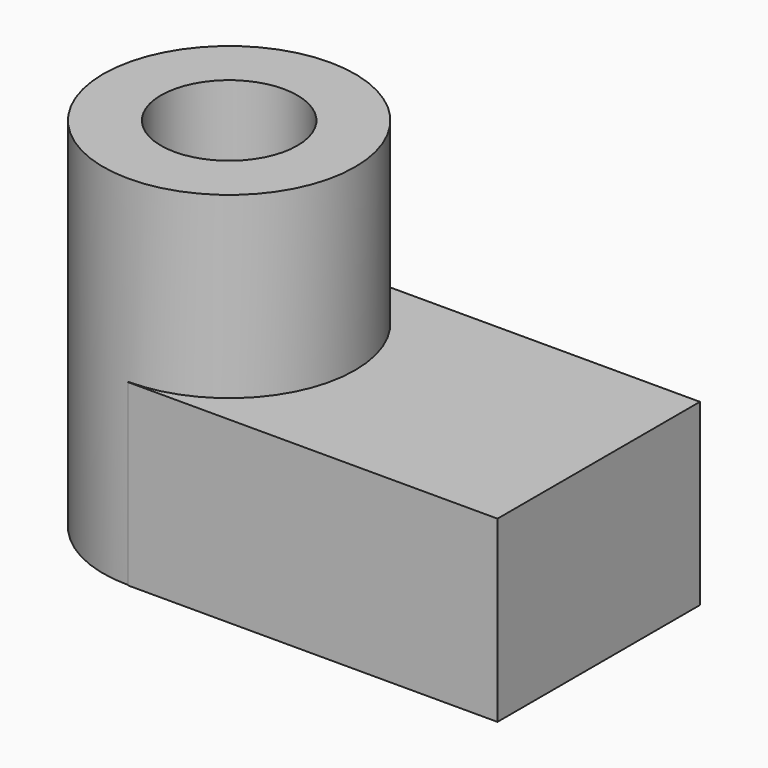
from build123d import *

# Parameters (mm, degrees)
F1_DEPTH = 50.8
F2_DEPTH = 101.6


with BuildPart() as f1:
    # F0 (on Top) → F1 (new body)
    with BuildSketch(Plane.XY):
        with BuildLine():
            Line((-52.4568893015, -35.9189924534), (52.4568893015, -35.9189924534))
            Line((52.4568893015, -35.9189924534), (52.4568893015, 35.9189924534))
            Line((52.4568893015, 35.9189924534), (-52.4568893015, 35.9189924534))
            Line((-52.4568893015, 35.9189924534), (-52.4568893015, 35.7533046328))
            ThreePointArc((-52.4568893015, 35.7533046328), (-27.1754851459, 25.2814041557), (-16.7035846688, 0))
            ThreePointArc((-16.7035846688, 0), (-27.1754851459, -25.2814041557), (-52.4568893015, -35.7533046328))
            Line((-52.4568893015, -35.7533046328), (-52.4568893015, -35.9189924534))
        make_face()
        with BuildLine():
            ThreePointArc((-52.4568893015, 35.7533046328), (-88.2101939343, 0), (-52.4568893015, -35.7533046328))
            Line((-52.4568893015, -35.7533046328), (-52.4568893015, -19.3560567568))
            ThreePointArc((-52.4568893015, -19.3560567568), (-71.8129460583, 0), (-52.4568893015, 19.3560567568))
            Line((-52.4568893015, 19.3560567568), (-52.4568893015, 35.7533046328))
        make_face()
        with BuildLine():
            Line((-52.4568893015, -19.3560567568), (-52.4568893015, -35.7533046328))
            ThreePointArc((-52.4568893015, -35.7533046328), (-27.1754851459, -25.2814041557), (-16.7035846688, 0))
            ThreePointArc((-16.7035846688, 0), (-27.1754851459, 25.2814041557), (-52.4568893015, 35.7533046328))
            Line((-52.4568893015, 35.7533046328), (-52.4568893015, 19.3560567568))
            ThreePointArc((-52.4568893015, 19.3560567568), (-38.7700903118, 13.6867989898), (-33.1008325448, 0))
            ThreePointArc((-33.1008325448, 0), (-38.7700903118, -13.6867989898), (-52.4568893015, -19.3560567568))
        make_face()
    extrude(amount=F1_DEPTH)

    # F0 (on Top) → F2 (join)
    with BuildSketch(Plane.XY):
        with BuildLine():
            ThreePointArc((-52.4568893015, 35.7533046328), (-88.2101939343, 0), (-52.4568893015, -35.7533046328))
            Line((-52.4568893015, -35.7533046328), (-52.4568893015, -19.3560567568))
            ThreePointArc((-52.4568893015, -19.3560567568), (-71.8129460583, 0), (-52.4568893015, 19.3560567568))
            Line((-52.4568893015, 19.3560567568), (-52.4568893015, 35.7533046328))
        make_face()
        with BuildLine():
            Line((-52.4568893015, -19.3560567568), (-52.4568893015, -35.7533046328))
            ThreePointArc((-52.4568893015, -35.7533046328), (-27.1754851459, -25.2814041557), (-16.7035846688, 0))
            ThreePointArc((-16.7035846688, 0), (-27.1754851459, 25.2814041557), (-52.4568893015, 35.7533046328))
            Line((-52.4568893015, 35.7533046328), (-52.4568893015, 19.3560567568))
            ThreePointArc((-52.4568893015, 19.3560567568), (-38.7700903118, 13.6867989898), (-33.1008325448, 0))
            ThreePointArc((-33.1008325448, 0), (-38.7700903118, -13.6867989898), (-52.4568893015, -19.3560567568))
        make_face()
    extrude(amount=F2_DEPTH)


solid = f1.part
